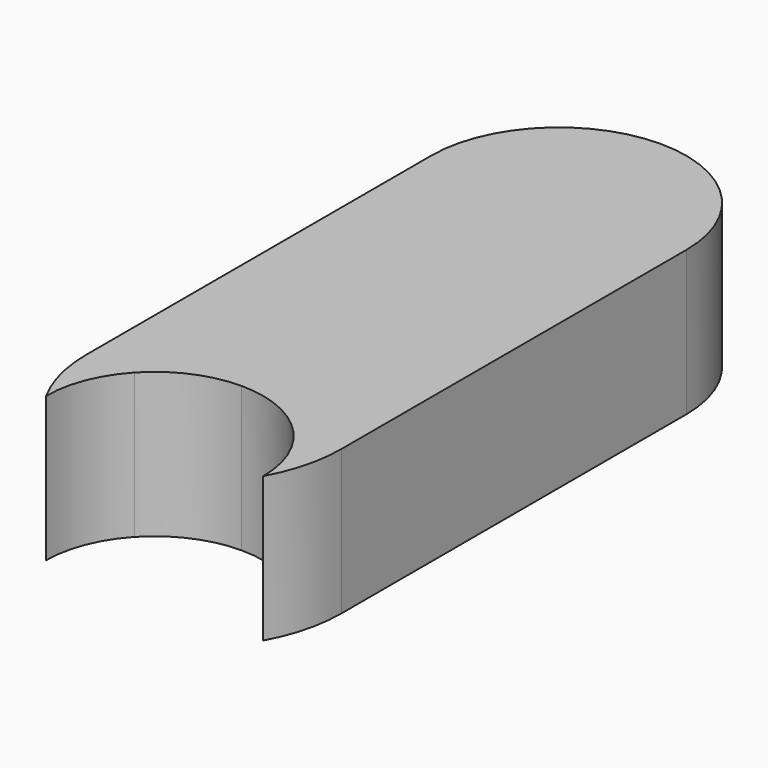
from build123d import *

# Parameters (mm, degrees)
F1_DEPTH = 12.7


with BuildPart() as f1:
    # F0 (on Top) → F1 (new body)
    with BuildSketch(Plane.XY):
        with BuildLine():
            ThreePointArc((11.193768, 44.312703), (0, 55.506471), (-11.193768, 44.312703))
            Line((-11.193768, 44.312703), (11.193768, 44.312703))
        make_face()
        with BuildLine():
            Line((-11.193768, 6.487297), (-6.974282, 6.487297))
            ThreePointArc((-6.974282, 6.487297), (-3.803559, 8.732615), (0, 9.525))
            ThreePointArc((0, 9.525), (3.803559, 8.732615), (6.974282, 6.487297))
            Line((6.974282, 6.487297), (11.193768, 6.487297))
            Line((11.193768, 6.487297), (11.193768, 44.312703))
            Line((11.193768, 44.312703), (-11.193768, 44.312703))
            Line((-11.193768, 44.312703), (-11.193768, 6.487297))
        make_face()
        with BuildLine():
            Line((11.193768, 6.487297), (6.974282, 6.487297))
            ThreePointArc((6.974282, 6.487297), (8.864414, 3.485369), (9.525, 0))
            ThreePointArc((9.525, 0), (10.769894, 3.13805), (11.193768, 6.487297))
        make_face()
        with BuildLine():
            ThreePointArc((-11.193768, 6.487297), (-10.769894, 3.13805), (-9.525, 0))
            ThreePointArc((-9.525, 0), (-8.864414, 3.485369), (-6.974282, 6.487297))
            Line((-6.974282, 6.487297), (-11.193768, 6.487297))
        make_face()
    extrude(amount=F1_DEPTH)


solid = f1.part
